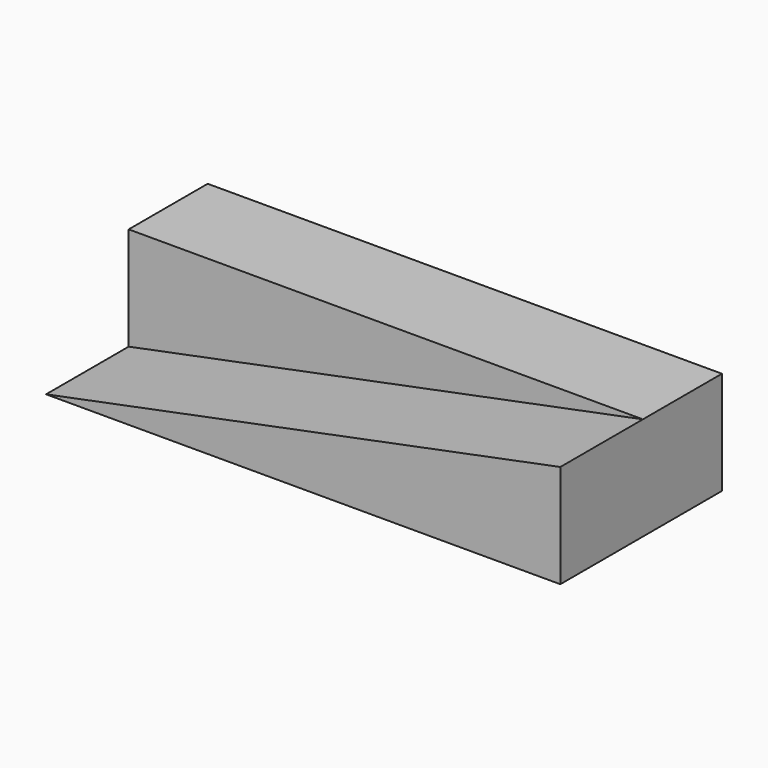
from build123d import *

# Parameters (mm, degrees)
F0_W     = 126.529091
F0_H     = 49.704478
F1_DEPTH = 25.4
F3_DEPTH = 25.4


with BuildPart() as f1:
    # F0 (on Top) → F1 (new body)
    with BuildSketch(Plane.XY):
        with Locations((-4.691902, -11.49794)):
            Rectangle(F0_W, F0_H)
    extrude(amount=F1_DEPTH)

    # F2 (on face) → F3 (cut)
    with BuildSketch(Plane.XZ.offset(36.350179)):
        Polygon((-67.956448, 0), (58.572643, 25.4), (-67.956448, 25.4), align=None)
    extrude(amount=-F3_DEPTH, mode=Mode.SUBTRACT)


solid = f1.part
